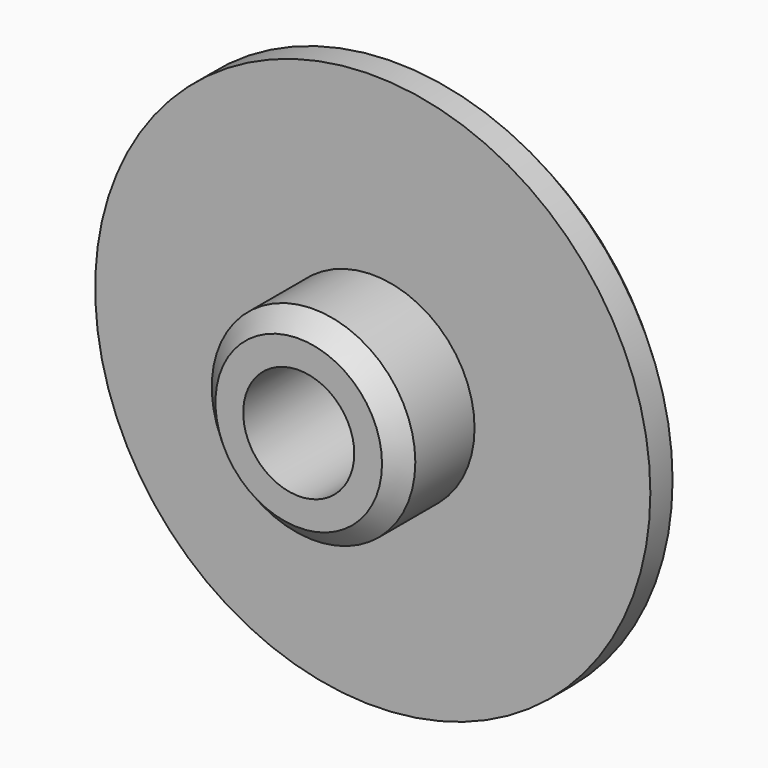
from build123d import *

# Parameters (mm, degrees)
F0_R     = 15
F1_DEPTH = 2.5
F2_R     = 5.5
F3_DEPTH = 5
F4_R     = 3
F5_DEPTH = 25
F6_SIZE  = 1


with BuildPart() as f1:
    # F0 (on Front) → F1 (new body)
    with BuildSketch(Plane.XZ):
        Circle(F0_R)
    extrude(amount=F1_DEPTH)

    # F2 (on face) → F3 (join)
    with BuildSketch(Plane.XZ.offset(2.5)):
        Circle(F2_R)
    extrude(amount=F3_DEPTH)

    # F4 (on face) → F5 (cut)
    with BuildSketch(Plane.XZ.offset(7.5)):
        Circle(F4_R)
    extrude(amount=-F5_DEPTH, mode=Mode.SUBTRACT)

    # F6
    f6_edges = [f1.edges().sort_by_distance(p)[0] for p in [
        (-5.5, -7.5, 0),
        (-15, 0, 0),
    ]]
    chamfer(f6_edges, length=F6_SIZE)


solid = f1.part
